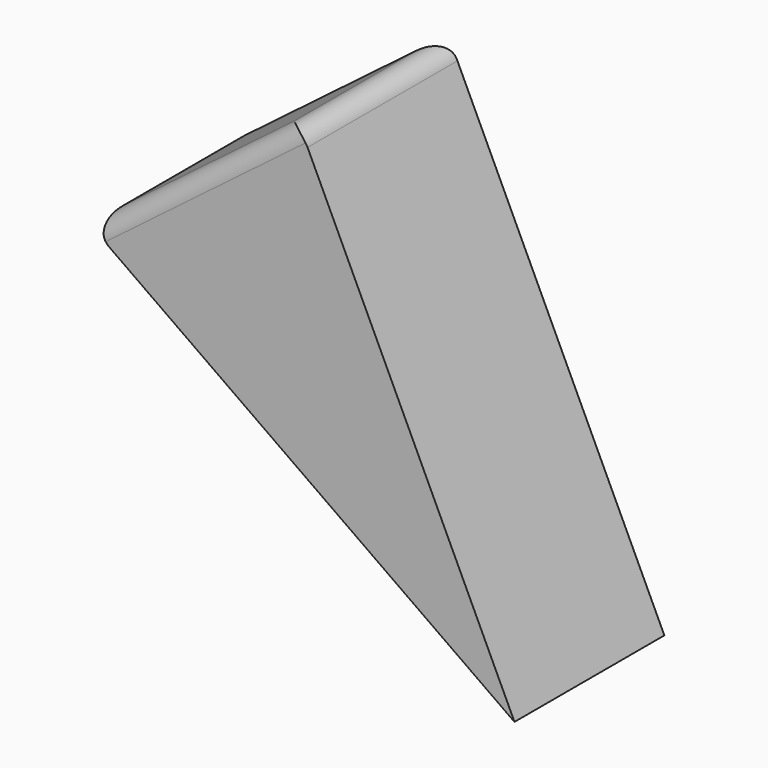
from build123d import *

# Parameters (mm, degrees)
F1_DEPTH = 50.846552
F2_R     = 5


with BuildPart() as f1:
    # F0 (on Front) → F1 (new body)
    with BuildSketch(Plane.XZ):
        Polygon((60.304761, -81.533104), (1.513019, 43.052867), (-55.117257, 0), align=None)
    extrude(amount=F1_DEPTH)

    # F2
    f2_edges = [f1.edges().sort_by_distance(p)[0] for p in [
        (1.513019, -25.423276, 43.052867),
        (-55.117257, -25.423276, 0),
        (-26.802119, 0, 21.526434),
        (-26.802119, -50.846552, 21.526434),
    ]]
    fillet(f2_edges, radius=F2_R)


solid = f1.part
